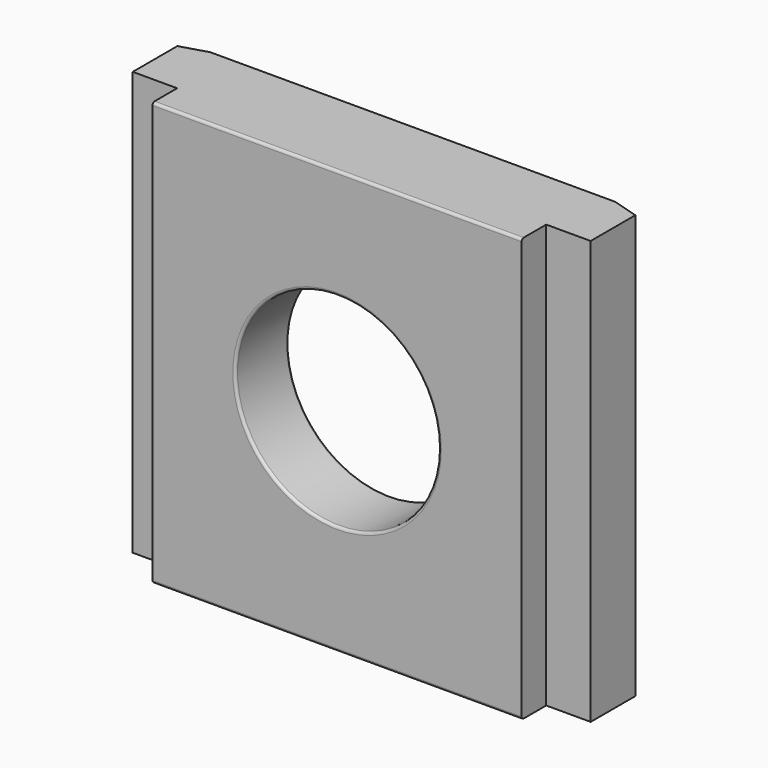
from build123d import *

# Parameters (mm, degrees)
F0_W       = 43.8023
F0_H       = 40.5003
F0_R       = 9.72185
F1_DEPTH   = 9.0424
F3_DEPTH   = 25.4
F4_SIZE2   = 2.54
F4_SIZE    = 0.762
F4_2_SIZE2 = 2.54
F4_2_SIZE  = 0.762
F5_R       = 12.65555
F6_DEPTH   = 2.667
F7_R       = 0.254


with BuildPart() as f1:
    # F0 (on Front) → F1 (new body)
    with BuildSketch(Plane.XZ):
        Rectangle(F0_W, F0_H)
        Circle(F0_R, mode=Mode.SUBTRACT)
    extrude(amount=F1_DEPTH)

    # F2 (on Top) → F3 (cut, symmetric)
    with BuildSketch(Plane.XY):
        Polygon((17.653, -6.096), (17.653, -9.144), (17.653, -9.8752817139), (22.691456601, -9.8752817139), (22.691456601, -6.096), align=None)
        Polygon((-17.653, -9.8752817139), (-17.653, -9.144), (-17.653, -6.096), (-22.691456601, -6.096), (-22.691456601, -9.8752817139), align=None)
    extrude(amount=F3_DEPTH, both=True, mode=Mode.SUBTRACT)

    # F4
    f4_edges = [f1.edges().sort_by_distance(p)[0] for p in [
        (-21.90115, 0, 0),
    ]]
    f4_side = f1.faces().sort_by_distance((-21.90115, -3.048, 0))[0]
    chamfer(f4_edges, length=F4_SIZE, length2=F4_SIZE2, reference=f4_side)

    # F4#2
    f4_2_edges = [f1.edges().sort_by_distance(p)[0] for p in [
        (21.90115, 0, 0),
    ]]
    f4_2_side = f1.faces().sort_by_distance((21.90115, -3.048, 0))[0]
    chamfer(f4_2_edges, length=F4_2_SIZE, length2=F4_2_SIZE2, reference=f4_2_side)

    # F5 (on face) → F6 (cut)
    with BuildSketch(Plane(origin=(0, 0, 0), x_dir=(-1, 0, 0), z_dir=(0, 1, 0))):
        Circle(F5_R)
    extrude(amount=-F6_DEPTH, mode=Mode.SUBTRACT)

    # F7
    f7_edges = [f1.edges().sort_by_distance(p)[0] for p in [
        (12.65555, 0, 0),
        (-9.72185, -2.667, 0),
        (0, -9.0424, -20.25015),
        (0, -9.0424, 20.25015),
        (-9.72185, -9.0424, 0),
    ]]
    fillet(f7_edges, radius=F7_R)


solid = f1.part
